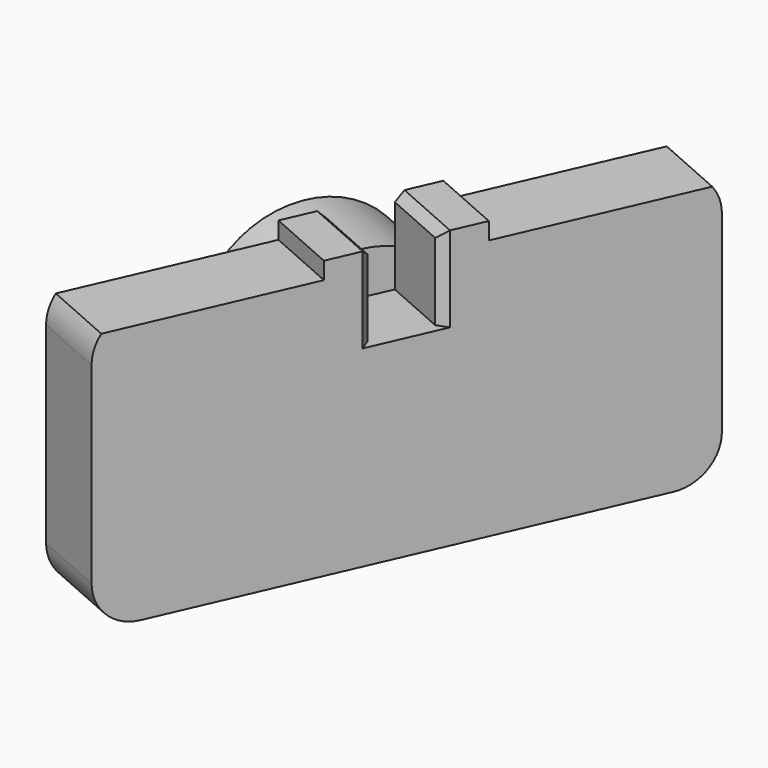
from build123d import *

# Parameters (mm, degrees)
PAD036_DEPTH            = 1.8
SKETCH112_R             = 2.25
PAD037_DEPTH            = 2.6
CHAMFER001_SIZE         = 0.4
SKETCH113_W             = 1.4
SKETCH113_H             = 2
SKETCH113_W_2           = 6.443533
SKETCH113_H_2           = 0.4
SKETCH113_W_3           = 7.136163
POCKET007_DEPTH         = 1.8
CHAMFER005_SIZE         = 0.2
BODY035_PLACEMENT_ANGLE = 23.8


with BuildPart() as part:
    # Sketch111 → Pad036 (new body)
    with BuildSketch(Plane.YZ):
        with BuildLine():
            Line((-6.5, 2.25), (-6.5, -2.25))
            ThreePointArc((-6.5, -2.25), (-6.207107, -2.957107), (-5.5, -3.25))
            Line((-5.5, -3.25), (5.5, -3.25))
            ThreePointArc((5.5, -3.25), (6.207107, -2.957107), (6.5, -2.25))
            Line((6.5, -2.25), (6.5, 2.25))
            ThreePointArc((6.5, 2.25), (6.207107, 2.957107), (5.5, 3.25))
            Line((-5.5, 3.25), (5.5, 3.25))
            ThreePointArc((-5.5, 3.25), (-6.207107, 2.957107), (-6.5, 2.25))
        make_face()
    extrude(amount=PAD036_DEPTH)

    # Sketch112 (on Face9 of Pad036) → Pad037 (join)
    with BuildSketch(Plane(origin=(0, 0, 0), x_dir=(0, 1, 0), z_dir=(-1, 0, 0))):
        Circle(SKETCH112_R)
    extrude(amount=PAD037_DEPTH)

    # Chamfer001
    chamfer001_edges = [part.edges().sort_by_distance(p)[0] for p in [
        (-2.6, -2.25, 0),
    ]]
    chamfer(chamfer001_edges, length=CHAMFER001_SIZE)

    # Sketch113 (on Face13 of Chamfer001) → Pocket007 (cut)
    with BuildSketch(Plane.YZ.offset(1.8)):
        with Locations((-0.008084, 2.25)):
            Rectangle(SKETCH113_W, SKETCH113_H)
        with Locations((4.913683, 3.05)):
            Rectangle(SKETCH113_W_2, SKETCH113_H_2)
        with Locations((-5.276165, 3.05)):
            Rectangle(SKETCH113_W_3, SKETCH113_H_2)
    extrude(amount=-POCKET007_DEPTH, mode=Mode.SUBTRACT)

    # Chamfer005
    chamfer005_edges = [part.edges().sort_by_distance(p)[0] for p in [
        (1.8, -0.708084, 2.25),
        (1.8, 0.691916, 2.25),
        (0.9, 0.691916, 3.25),
        (0.9, -0.708084, 3.25),
    ]]
    chamfer(chamfer005_edges, length=CHAMFER005_SIZE)


with BuildPart() as part_1:
    # Body035 placement: moved
    add(part.part.moved(Location((-19.5, 50, -6.9))).rotate(Axis((-19.5, 50, -6.9), (0, 0, -1)), BODY035_PLACEMENT_ANGLE))


solid = part_1.part
